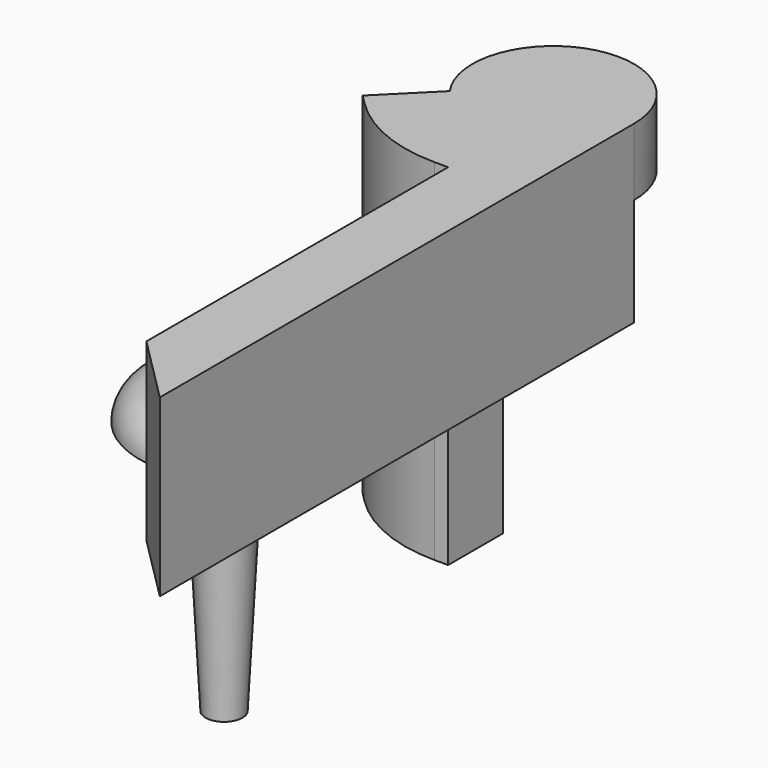
from build123d import *

# Parameters (mm, degrees)
F1_DEPTH  = 5
F3_DEPTH  = 8
F4_R      = 2
F5_DEPTH  = 10
F6_R      = 2
F7_DEPTH  = 12
F7_TAPER  = 3
F8_R      = 2.9
F9_DEPTH  = 8
F18_DEPTH = 26


with BuildPart() as f1:
    # F0 (on Top) → F1 (new body)
    with BuildSketch(Plane.XY):
        with BuildLine():
            Line((6, -44), (6, 0))
            ThreePointArc((6, 0), (-4.582575695, 3.8729833462), (1, -5.9160797831))
            Line((1, -5.9160797831), (1, -39))
            Line((1, -39), (6, -44))
        make_face()
    extrude(amount=F1_DEPTH)

    # F2 (on face) → F3 (join)
    with BuildSketch(Plane.XY.offset(5)):
        with BuildLine():
            ThreePointArc((6, 0), (4.582575695, -3.8729833462), (1, -5.9160797831))
            Line((1, -5.9160797831), (1, -39))
            Line((1, -39), (6, -44))
            Line((6, -44), (6, 0))
        make_face()
    extrude(amount=F3_DEPTH)

    # F4 (on face) → F5 (cut)
    with BuildSketch(Plane.XY.offset(13)):
        with Locations((3.5, -10.9160797831)):
            Circle(F4_R)
    extrude(amount=-F5_DEPTH, mode=Mode.SUBTRACT)

    # F6 (on face) → F7 (join)
    with BuildSketch(Plane.XY.offset(13)):
        with Locations((3.5, -34.916)):
            Circle(F6_R)
    extrude(amount=F7_DEPTH, taper=F7_TAPER)

    # F8 (on face) → F9 (join, through all)
    with BuildSketch(Plane.XY.offset(5)):
        Circle(F8_R)
    extrude(amount=F9_DEPTH)


with BuildPart() as f10_1:
    # F10: instance of F1
    add(f1.part.mirror(Plane(origin=(3.6215352024, -22.9951774059, 13), x_dir=(1, 0, 0), z_dir=(0, 0, 1))))

    # F14: sweep along a path in F12
    with BuildLine(Plane(origin=(0, 0, 13), x_dir=(1, 0, 0), z_dir=(0, 0, -1))) as f14_path:
        Line((1, 29), (-4, 29))
        ThreePointArc((-4, 29), (-9, 24), (-4, 19))
    # F13 (on face) → F14 (sweep)
    with BuildSketch(Plane(origin=(1, 0, 0), x_dir=(0, -1, 0), z_dir=(-1, 0, 0))):
        with BuildLine():
            ThreePointArc((31.5, 13), (29, 15.5), (26.5, 13))
            Line((26.5, 13), (31.5, 13))
        make_face()
    sweep(path=f14_path.line)

    # F15 (on face) → F16 (revolve)
    with BuildSketch(Plane.YZ.offset(-4)):
        with BuildLine():
            Line((-19, 13), (-16.5, 13))
            ThreePointArc((-16.5, 13), (-17.232233047, 14.767766953), (-19, 15.5))
            Line((-19, 15.5), (-19, 13))
        make_face()
    revolve(axis=Axis((-4, -19, 14.25), (0, 0, 1)))

    # F17 (on face) → F18 (join)
    with BuildSketch(Plane.XY.offset(26)):
        with BuildLine():
            Line((-8.4852813742, -7.0710678119), (-7.7781745931, -7.7781745931))
            ThreePointArc((-7.7781745931, -7.7781745931), (-4.209517756, -10.1626748576), (0, -11))
            Line((0, -11), (1, -11))
            Line((1, -11), (1, -5.9160797831))
            ThreePointArc((1, -5.9160797831), (-2.2961005942, -5.5432771951), (-4.8904069139, -3.4761933515))
            Line((-4.8904069139, -3.4761933515), (-8.4852813742, -7.0710678119))
        make_face()
    extrude(amount=-F18_DEPTH)


solid = f10_1.part
